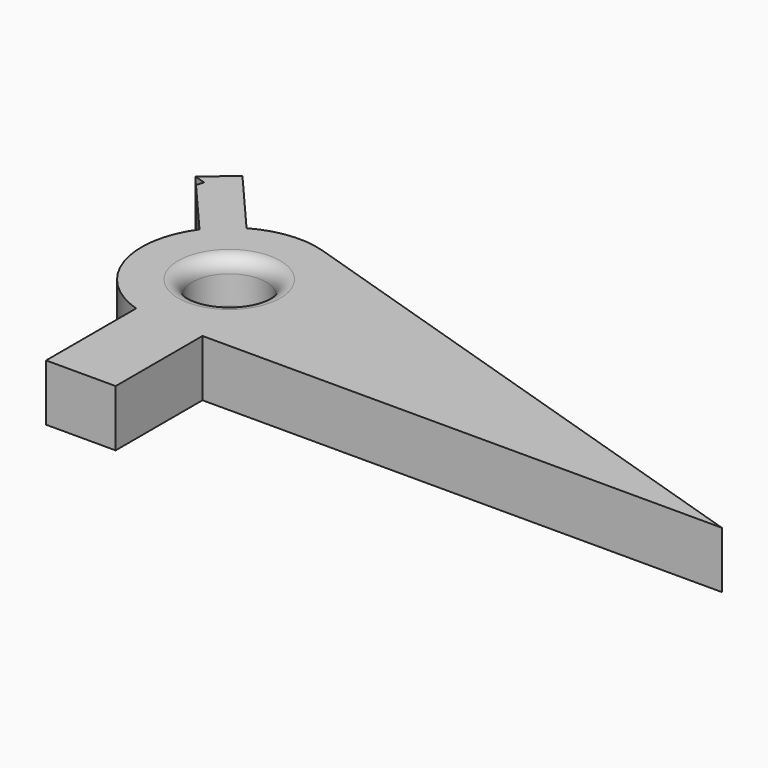
from build123d import *

# Parameters (mm, degrees)
F2_DEPTH = 4
F1_R     = 2.6
F3_DEPTH = 5
F4_R     = 1
F6_DEPTH = 4


with BuildPart() as f2:
    # F0 (on Top) → F2 (new body)
    with BuildSketch(Plane.XY):
        with BuildLine():
            Line((39.760675, -6.1935), (1.883808, 5.90006))
            ThreePointArc((1.883808, 5.90006), (-5.905721, 1.865987), (-1.848149, -5.911327))
            Line((-1.848149, -5.911327), (-1.848149, -13.865659))
            Line((-1.848149, -13.865659), (3.065253, -13.865659))
            Line((3.065253, -13.865659), (3.065253, -6.1935))
            Line((3.065253, -6.1935), (39.760675, -6.1935))
        make_face()
    extrude(amount=-F2_DEPTH)

    # F1 (on Top) → F3 (cut)
    with BuildSketch(Plane.XY):
        Circle(F1_R)
    extrude(amount=-F3_DEPTH, mode=Mode.SUBTRACT)

    # F4
    f4_edges = [f2.edges().sort_by_distance(p)[0] for p in [
        (-2.6, 0, 0),
        (-2.6, 0, -4),
    ]]
    fillet(f4_edges, radius=F4_R)

    # F5 (on Top) → F6 (join)
    with BuildSketch(Plane.XY):
        Polygon((-4.70453, 3.279649), (-3.058211, 5.351829), (-7.161808, 10.117297), (-9.131761, 8.420949), (-8.328387, 8.181407), (-8.481963, 7.666345), align=None)
    extrude(amount=-F6_DEPTH)


solid = f2.part
